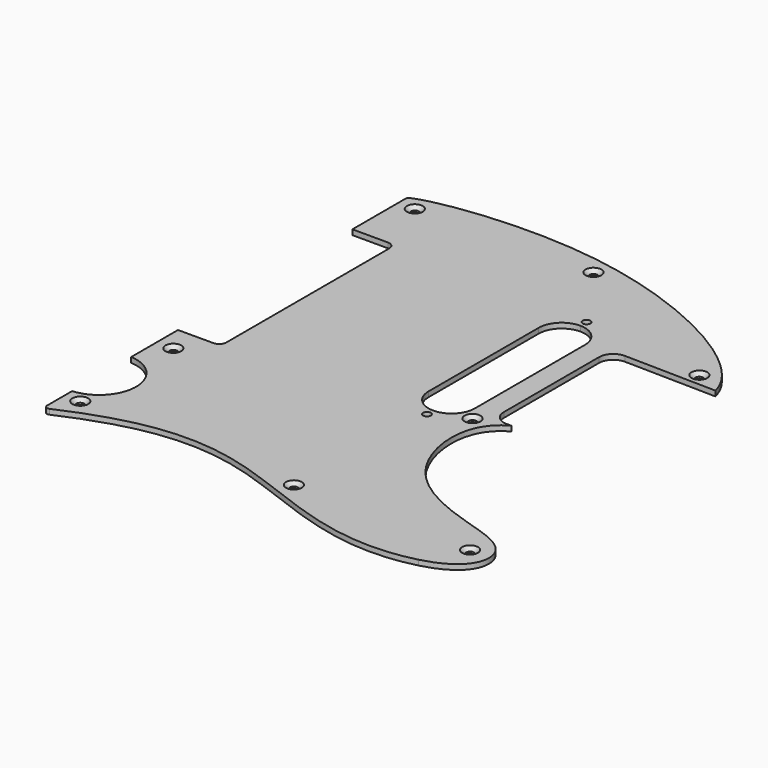
from build123d import *

# Parameters (mm, degrees)
F0_R           = 1.7145
F1_DEPTH       = 2.286
F3_D           = 3.429
F3_CSINK_D     = 6.985
F3_CSINK_ANGLE = 100


with BuildPart() as f1:
    # F0 (on Top) → F1 (new body)
    with BuildSketch(Plane.XY):
        with BuildLine():
            Line((-107.315, 44.577), (-107.315, 0))
            Line((-107.315, 0), (-107.315, -45.466))
            ThreePointArc((-107.315, -45.466), (-108.2449359697, -47.7110640303), (-110.49, -48.641))
            Line((-110.49, -48.641), (-126.1831725782, -48.641))
            Line((-126.1831725782, -48.641), (-126.1831725782, -74.4643509633))
            ThreePointArc((-126.1831725782, -74.4643509633), (-110.9431725782, -90.8074302325), (-126.1831725782, -107.1505095018))
            Line((-126.1831725782, -107.1505095018), (-126.1831725782, -120.9995541592))
            ThreePointArc((-126.1831725782, -120.9995541592), (-125.4878772763, -122.2785477179), (-124.0364212354, -122.3905095018))
            add(Edge.make_bspline(
                [(-124.0364212354, -122.3905095018), (-92.1620897644, -108.119898421), (-44.8342001538, -105.2326575753), (11.2428708762, -139.7984644702), (45.9769156525, -130.8487758618)],
                knots=[0, 0, 0, 0, 0.4826372845, 1, 1, 1, 1], degree=3))
            add(Edge.make_bspline(
                [(45.9769156525, -130.8487758618), (63.9045987038, -126.2294698809), (68.6514505288, -105.5264035805), (38.2052489987, -98.4084521542), (-2.269937153, -81.6966019844), (-5.9048724161, -40.0273548571), (8.4821237256, -32.6011509456)],
                knots=[0, 0, 0, 0, 0.2239387847, 0.4402341305, 0.7227921605, 1, 1, 1, 1], degree=3))
            Line((8.4821237256, -32.6011509456), (6.4693922036, -32.639))
            ThreePointArc((6.4693922036, -32.639), (1.9022837598, -30.8222655088), (0, -26.2901225007))
            Line((0, -26.2901225007), (0, 0))
            Line((0, 0), (0, 26.2901225007))
            ThreePointArc((0, 26.2901225007), (1.9022837598, 30.8222655088), (6.4693922036, 32.639))
            Line((6.4693922036, 32.639), (46.99, 31.877))
            add(Edge.make_bspline(
                [(46.99, 31.877), (42.0757997692, 52.678911241), (-38.4513290313, 95.0713380303), (-116.8473815997, 82.5720919582), (-125.3364096878, 78.3611001469)],
                knots=[0, 0, 0, 0, 0.5295245995, 0.9827682146, 0.9827682146, 0.9827682146, 0.9827682146], degree=3))
            ThreePointArc((-125.3364096878, 78.3611001469), (-125.9542952278, 77.7991075994), (-126.1831725782, 76.9958434321))
            Line((-126.1831725782, 76.9958434321), (-126.1831725782, 47.752))
            Line((-126.1831725782, 47.752), (-110.49, 47.752))
            ThreePointArc((-110.49, 47.752), (-108.2449359697, 46.8220640303), (-107.315, 44.577))
        make_face()
        with Locations((-19.7444725782, -44.1071)):
            Circle(F0_R, mode=Mode.SUBTRACT)
        with BuildLine():
            Line((-29.9679725782, -30.4165), (-29.9679725782, 0))
            Line((-29.9679725782, 0), (-29.9679725782, 30.4165))
            ThreePointArc((-29.9679725782, 30.4165), (-26.9735787556, 37.6456061775), (-19.7444725782, 40.64))
            ThreePointArc((-19.7444725782, 40.64), (-12.5153664007, 37.6456061775), (-9.5209725782, 30.4165))
            Line((-9.5209725782, 30.4165), (-9.5209725782, 0))
            Line((-9.5209725782, 0), (-9.5209725782, -30.4165))
            ThreePointArc((-9.5209725782, -30.4165), (-12.5153664007, -37.6456061775), (-19.7444725782, -40.64))
            ThreePointArc((-19.7444725782, -40.64), (-26.9735787556, -37.6456061775), (-29.9679725782, -30.4165))
        make_face(mode=Mode.SUBTRACT)
        with Locations((-19.7444725782, 44.1071)):
            Circle(F0_R, mode=Mode.SUBTRACT)
    extrude(amount=F1_DEPTH)

    # F3 (through all)
    with Locations(Plane.XY.offset(2.286)):
        with Locations((-118.892557919, 73.1397122145), (-41.0718210042, 74.603356421), (35.4653969407, 37.4418050051), (-5.4170950316, -36.8247628212), (-22.5851051509, -114.0981912613), (55.288285017, -114.0812188387), (-119.2670837045, -111.2700179219), (-118.8707649708, -60.3344850242)):
            CounterSinkHole(F3_D / 2, F3_CSINK_D / 2, counter_sink_angle=F3_CSINK_ANGLE)


solid = f1.part
